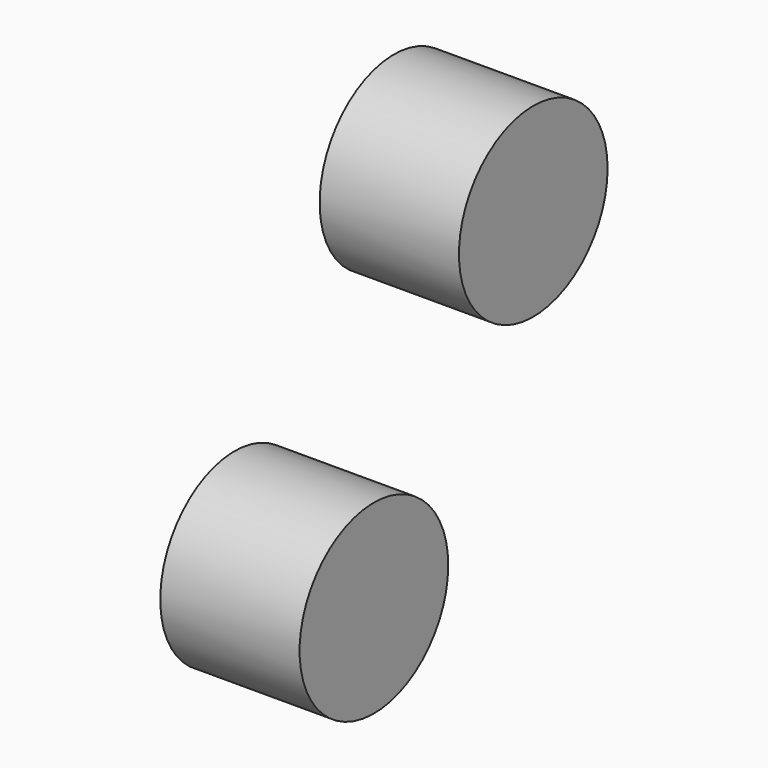
from build123d import *

# Parameters (mm, degrees)
F0_R     = 12.7
F1_DEPTH = 19.05


with BuildPart() as f1:
    # F0 (on Right) → F1 (new body)
    with BuildSketch(Plane.YZ):
        with Locations((27.237447, 36.6777)):
            Circle(F0_R)
        Circle(F0_R)
    extrude(amount=F1_DEPTH)


solid = f1.part
